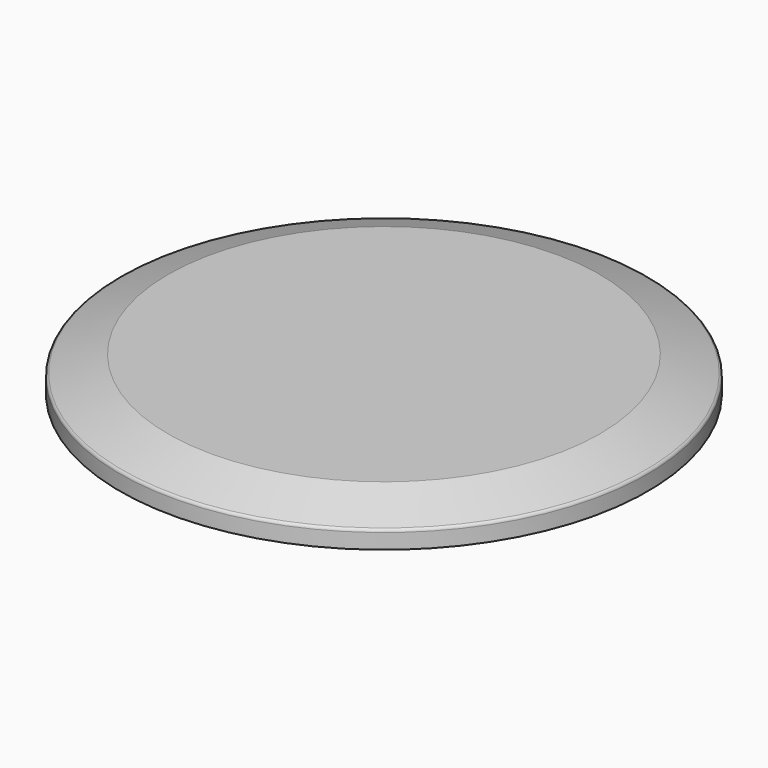
from build123d import *


with BuildPart() as f1:
    # F0 (on Front) → F1 (revolve)
    with BuildSketch(Plane.XZ):
        with BuildLine():
            Line((-83.45, 4.79839), (-83.45, 0))
            Line((-83.45, 0), (-80, 0))
            ThreePointArc((-80, 0), (-78.5, 1.5), (-77, 0))
            Line((-77, 0), (0, 0))
            Line((0, 0), (0, 11))
            Line((0, 11), (-68.25, 11))
            Line((-68.25, 11), (-82.790252, 5.738724))
            ThreePointArc((-82.790252, 5.738724), (-83.268612, 5.372737), (-83.45, 4.79839))
        make_face()
    revolve(axis=Axis((0, 0, 19.393453), (0, 0, 1)))


solid = f1.part
